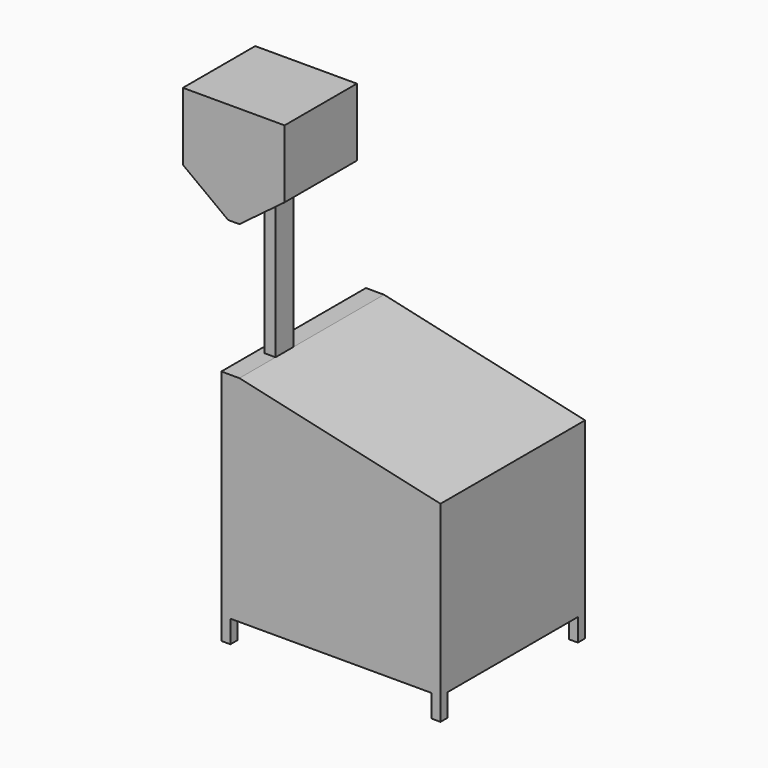
from build123d import *

# Parameters (mm, degrees)
F1_DEPTH = 800
F2_W     = 720
F2_H     = 100
F3_DEPTH = 1140.001


with BuildPart() as f1:
    # F0 (on Front) → F1 (new body)
    with BuildSketch(Plane.XZ):
        Polygon((0, 1050), (0, 0), (40, 0), (40, 100), (930, 100), (930, 0), (970, 0), (970, 850), (80, 1050), (80, 1650), (280, 1800), (280, 2100), (-170, 2100), (-170, 1800), (30, 1650), (30, 1050), align=None)
    extrude(amount=F1_DEPTH)

    # F2 (on face) → F3 (cut, through all)
    with BuildSketch(Plane.YZ.offset(970)):
        with Locations((-400, 50)):
            Rectangle(F2_W, F2_H)
        Polygon((-1182.620752, 1232.519794), (-800, 1050), (-600, 1050), (-600, 1650), (-800, 1650), (-800, 2165.248656), (-400.054373, 2171.843762), (-400.054373, 1650), (-500, 1650), (-500, 1050), (130.563885, 1050), (1207.751429, 1992.828178), (48.128108, 2661.814022), (-1305.009472, 2532.382298), align=None)
    extrude(amount=-F3_DEPTH, mode=Mode.SUBTRACT)


solid = f1.part
